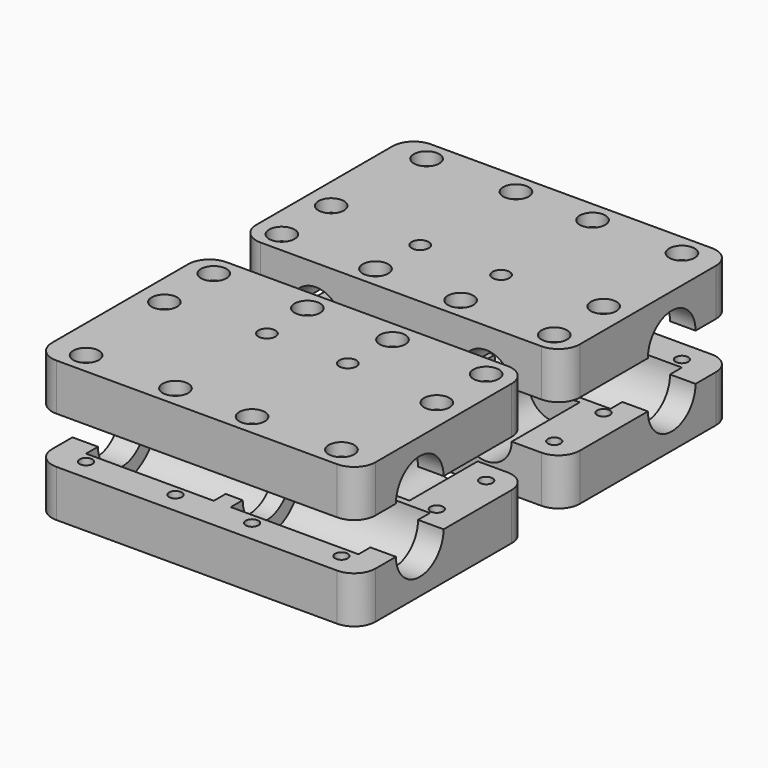
from build123d import *

# Parameters (mm, degrees)
F0_W      = 76
F0_H      = 50
F1_DEPTH  = 5.5
F2_R      = 1.5
F2_R_2    = 2
F3_DEPTH  = 11.001
F4_R      = 6
F5_DEPTH  = 20
F7_DEPTH  = 3
F8_R      = 7
F9_DEPTH  = 76.001
F11_START = -6
F10_R     = 10.5
F11_DEPTH = 30
F12_R     = 5
F13_START = -40
F13_DEPTH = 30
F16_R     = 3
F17_DEPTH = 3
F19_DEPTH = 3


with BuildPart() as f1:
    # F0 (on Top) → F1 (new body, symmetric)
    with BuildSketch(Plane.XY):
        Rectangle(F0_W, F0_H)
    extrude(amount=F1_DEPTH, both=True)

    # F2 (on face) → F3 (cut, through all)
    with BuildSketch(Plane.XY.offset(5.5)):
        with Locations((-30, 20)):
            Circle(F2_R)
        with Locations((-9, 20)):
            Circle(F2_R)
        with Locations((9, 20)):
            Circle(F2_R)
        with Locations((30, 20)):
            Circle(F2_R)
        with Locations((-32, -20)):
            Circle(F2_R)
        with Locations((-10, -20)):
            Circle(F2_R)
        with Locations((10, -20)):
            Circle(F2_R)
        with Locations((32, -20)):
            Circle(F2_R)
        with Locations((32, -5.5)):
            Circle(F2_R)
        with Locations((-9.5, -7.5)):
            Circle(F2_R_2)
        with Locations((9.5, -7.5)):
            Circle(F2_R_2)
        with Locations((-32, -5.5)):
            Circle(F2_R)
    extrude(amount=-F3_DEPTH, mode=Mode.SUBTRACT)

    # F4 (on face) → F5 (cut)
    with BuildSketch(Plane.XZ.offset(25)):
        with Locations((-20, 5.5)):
            Circle(F4_R)
        with Locations((20, 5.5)):
            Circle(F4_R)
    extrude(amount=-F5_DEPTH, mode=Mode.SUBTRACT)

    # F6 (on face) → F7 (cut)
    with BuildSketch(Plane(origin=(0, 0, -5.5), x_dir=(1, 0, 0), z_dir=(0, 0, -1))):
        Polygon((-33.5, 17.4019237886), (-30.5, 17.4019237886), (-29, 20), (-30.5, 22.5980762114), (-33.5, 22.5980762114), (-35, 20), align=None)
        Polygon((8.5, 17.4019237886), (11.5, 17.4019237886), (13, 20), (11.5, 22.5980762114), (8.5, 22.5980762114), (7, 20), align=None)
        Polygon((-11.5, 17.4019237886), (-8.5, 17.4019237886), (-7, 20), (-8.5, 22.5980762114), (-11.5, 22.5980762114), (-13, 20), align=None)
        Polygon((30.5, 17.4019237886), (33.5, 17.4019237886), (35, 20), (33.5, 22.5980762114), (30.5, 22.5980762114), (29, 20), align=None)
        Polygon((-33.5, 2.9019237886), (-30.5, 2.9019237886), (-29, 5.5), (-30.5, 8.0980762114), (-33.5, 8.0980762114), (-35, 5.5), align=None)
        Polygon((-31.5, -22.5980762114), (-28.5, -22.5980762114), (-27, -20), (-28.5, -17.4019237886), (-31.5, -17.4019237886), (-33, -20), align=None)
        Polygon((-10.5, -22.5980762114), (-7.5, -22.5980762114), (-6, -20), (-7.5, -17.4019237886), (-10.5, -17.4019237886), (-12, -20), align=None)
        Polygon((7.5, -22.5980762114), (10.5, -22.5980762114), (12, -20), (10.5, -17.4019237886), (7.5, -17.4019237886), (6, -20), align=None)
        Polygon((28.5, -22.5980762114), (31.5, -22.5980762114), (33, -20), (31.5, -17.4019237886), (28.5, -17.4019237886), (27, -20), align=None)
        Polygon((30.5, 2.9019237886), (33.5, 2.9019237886), (35, 5.5), (33.5, 8.0980762114), (30.5, 8.0980762114), (29, 5.5), align=None)
    extrude(amount=-F7_DEPTH, mode=Mode.SUBTRACT)

    # F8 (on face) → F9 (cut, through all)
    with BuildSketch(Plane(origin=(-38, 0, 0), x_dir=(0, -1, 0), z_dir=(-1, 0, 0))):
        with Locations((-7, 5.5)):
            Circle(F8_R)
    extrude(amount=-F9_DEPTH, mode=Mode.SUBTRACT)

    # F10 (on face) → F11 (cut)
    with BuildSketch(Plane(origin=(-38, 0, 0), x_dir=(0, -1, 0), z_dir=(-1, 0, 0)).offset(F11_START)):
        with Locations((-7, 5.5)):
            Circle(F10_R)
    extrude(amount=-F11_DEPTH, mode=Mode.SUBTRACT)

    # F12
    f12_edges = [f1.edges().sort_by_distance(p)[0] for p in [
        (38, -25, 0),
        (-38, -25, 0),
        (-38, 25, 0),
        (38, 25, 0),
    ]]
    fillet(f12_edges, radius=F12_R)

    # F10 (on face) → F13 (cut)
    with BuildSketch(Plane(origin=(-38, 0, 0), x_dir=(0, -1, 0), z_dir=(-1, 0, 0)).offset(F13_START)):
        with Locations((-7, 5.5)):
            Circle(F10_R)
    extrude(amount=-F13_DEPTH, mode=Mode.SUBTRACT)


with BuildPart() as f15_1:
    # F15: instance of F1
    add(f1.part.mirror(Plane.XY.offset(11)))

    # F16 (on face) → F17 (cut)
    with BuildSketch(Plane.XY.offset(27.5)):
        with Locations((-30, 20)):
            Circle(F16_R)
        with Locations((-9, 20)):
            Circle(F16_R)
        with Locations((-49.465674907, 3.9686970413)):
            Circle(F16_R)
        with Locations((-32, -5.5)):
            Circle(F16_R)
        with Locations((-32, -20)):
            Circle(F16_R)
        with Locations((32, -5.5)):
            Circle(F16_R)
        with Locations((32, -20)):
            Circle(F16_R)
        with Locations((10, -20)):
            Circle(F16_R)
        with Locations((-10, -20)):
            Circle(F16_R)
        with Locations((30, 20)):
            Circle(F16_R)
        with Locations((9, 20)):
            Circle(F16_R)
    extrude(amount=-F17_DEPTH, mode=Mode.SUBTRACT)


with BuildPart() as f1_1:
    add(f1.part)

    # F18 (on face) → F19 (cut)
    with BuildSketch(Plane(origin=(0, 0, -5.5), x_dir=(1, 0, 0), z_dir=(0, 0, -1))):
        Polygon((-11.5, 4.0358983849), (-7.5, 4.0358983849), (-5.5, 7.5), (-7.5, 10.9641016151), (-11.5, 10.9641016151), (-13.5, 7.5), align=None)
        Polygon((7.5, 4.0358983849), (11.5, 4.0358983849), (13.5, 7.5), (11.5, 10.9641016151), (7.5, 10.9641016151), (5.5, 7.5), align=None)
    extrude(amount=-F19_DEPTH, mode=Mode.SUBTRACT)


with BuildPart() as f21_1:
    # F21: instance of F15_1
    add(f15_1.part.mirror(Plane.XZ.offset(30)))


with BuildPart() as f21_2:
    # F21: instance of F1
    add(f1_1.part.mirror(Plane.XZ.offset(30)))


solid = Compound([f15_1.part, f1_1.part, f21_1.part, f21_2.part])
